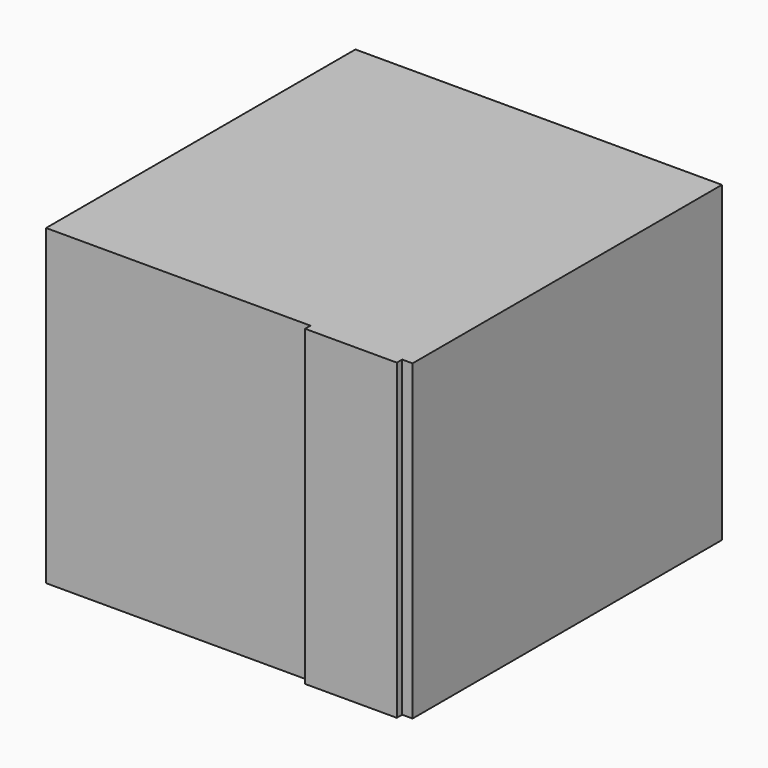
from build123d import *

# Parameters (mm, degrees)
F0_W     = 545
F0_H     = 465
F1_DEPTH = 575
F2_W     = 120
F2_H     = 12
F3_DEPTH = 10
F4_W     = 136.365123
F4_H     = 465
F5_DEPTH = 10


with BuildPart() as f1:
    # F0 (on Front) → F1 (new body)
    with BuildSketch(Plane.XZ):
        Rectangle(F0_W, F0_H)
    extrude(amount=-F1_DEPTH)

    # F2 (on face) → F3 (join)
    with BuildSketch(Plane(origin=(0, 575, 0), x_dir=(-1, 0, 0), z_dir=(0, 1, 0))):
        with Locations((0, 160.409869)):
            Rectangle(F2_W, F2_H)
    extrude(amount=F3_DEPTH)

    # F4 (on face) → F5 (join)
    with BuildSketch(Plane.XZ):
        with Locations((188.826646, 0)):
            Rectangle(F4_W, F4_H)
    extrude(amount=F5_DEPTH)


solid = f1.part
